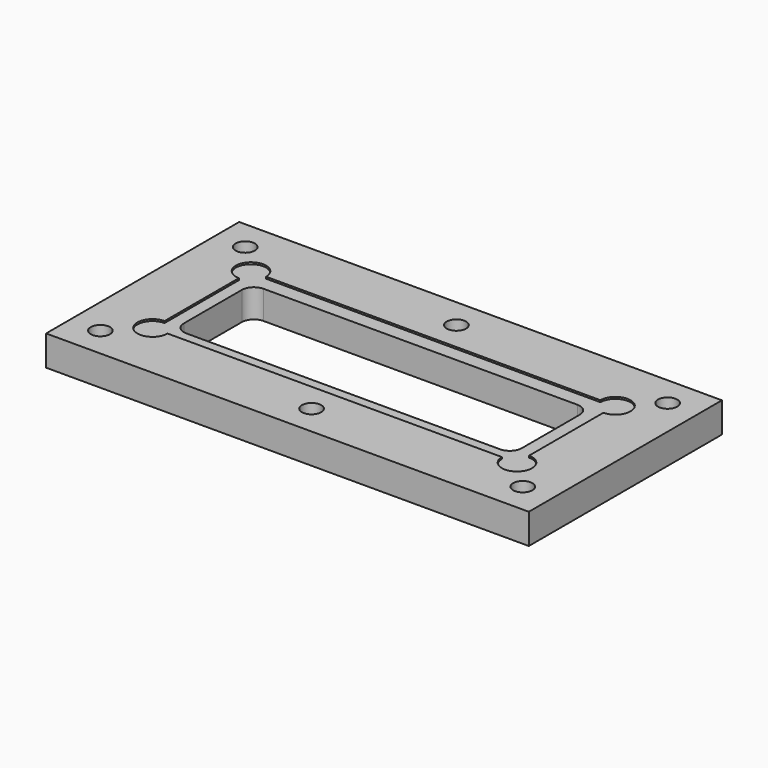
from build123d import *

# Parameters (mm, degrees)
F0_W     = 101.6
F0_H     = 50.8
F1_DEPTH = 6.35
F3_DEPTH = 0.381
F5_DEPTH = 5.969
F6_R     = 2.032
F7_DEPTH = 6.35


with BuildPart() as f1:
    # F0 (on Top) → F1 (new body)
    with BuildSketch(Plane.XY):
        with Locations((50.8, 25.4)):
            Rectangle(F0_W, F0_H)
    extrude(amount=F1_DEPTH)

    # F2 (on face) → F3 (cut)
    with BuildSketch(Plane.XY.offset(6.35)):
        with BuildLine():
            ThreePointArc((12.446, 15.621), (14.6910640303, 14.6910640303), (15.621, 12.446))
            Line((15.621, 12.446), (85.979, 12.446))
            ThreePointArc((85.979, 12.446), (86.9089359697, 14.6910640303), (89.154, 15.621))
            Line((89.154, 15.621), (89.154, 35.179))
            ThreePointArc((89.154, 35.179), (86.9089359697, 36.1089359697), (85.979, 38.354))
            Line((85.979, 38.354), (15.621, 38.354))
            ThreePointArc((15.621, 38.354), (14.6910640303, 36.1089359697), (12.446, 35.179))
            Line((12.446, 35.179), (12.446, 15.621))
        make_face()
        with BuildLine():
            Line((89.154, 38.354), (89.154, 35.179))
            ThreePointArc((89.154, 35.179), (91.3990640303, 36.1089359697), (92.329, 38.354))
            ThreePointArc((92.329, 38.354), (89.154, 41.529), (85.979, 38.354))
            Line((85.979, 38.354), (89.154, 38.354))
        make_face()
        with BuildLine():
            ThreePointArc((85.979, 38.354), (86.9089359697, 36.1089359697), (89.154, 35.179))
            Line((89.154, 35.179), (89.154, 38.354))
            Line((89.154, 38.354), (85.979, 38.354))
        make_face()
        with BuildLine():
            Line((12.446, 38.354), (12.446, 35.179))
            ThreePointArc((12.446, 35.179), (14.6910640303, 36.1089359697), (15.621, 38.354))
            Line((15.621, 38.354), (12.446, 38.354))
        make_face()
        with BuildLine():
            ThreePointArc((15.621, 38.354), (10.2009359697, 40.5990640303), (12.446, 35.179))
            Line((12.446, 35.179), (12.446, 38.354))
            Line((12.446, 38.354), (15.621, 38.354))
        make_face()
        with BuildLine():
            Line((89.154, 12.446), (85.979, 12.446))
            ThreePointArc((85.979, 12.446), (89.154, 9.271), (92.329, 12.446))
            ThreePointArc((92.329, 12.446), (91.3990640303, 14.6910640303), (89.154, 15.621))
            Line((89.154, 15.621), (89.154, 12.446))
        make_face()
        with BuildLine():
            ThreePointArc((89.154, 15.621), (86.9089359697, 14.6910640303), (85.979, 12.446))
            Line((85.979, 12.446), (89.154, 12.446))
            Line((89.154, 12.446), (89.154, 15.621))
        make_face()
        with BuildLine():
            Line((15.621, 12.446), (12.446, 12.446))
            Line((12.446, 12.446), (12.446, 15.621))
            ThreePointArc((12.446, 15.621), (10.2009359697, 10.2009359697), (15.621, 12.446))
        make_face()
        with BuildLine():
            Line((12.446, 15.621), (12.446, 12.446))
            Line((12.446, 12.446), (15.621, 12.446))
            ThreePointArc((15.621, 12.446), (14.6910640303, 14.6910640303), (12.446, 15.621))
        make_face()
    extrude(amount=-F3_DEPTH, mode=Mode.SUBTRACT)

    # F4 (on face) → F5 (cut, through all)
    with BuildSketch(Plane.XY.offset(5.969)):
        with BuildLine():
            ThreePointArc((14.986, 17.526), (15.7299487758, 15.7299487758), (17.526, 14.986))
            Line((17.526, 14.986), (83.566, 14.986))
            ThreePointArc((83.566, 14.986), (85.3620512242, 15.7299487758), (86.106, 17.526))
            Line((86.106, 17.526), (86.106, 32.766))
            ThreePointArc((86.106, 32.766), (85.3620512242, 34.5620512242), (83.566, 35.306))
            Line((83.566, 35.306), (17.526, 35.306))
            ThreePointArc((17.526, 35.306), (15.7299487758, 34.5620512242), (14.986, 32.766))
            Line((14.986, 32.766), (14.986, 17.526))
        make_face()
    extrude(amount=-F5_DEPTH, mode=Mode.SUBTRACT)

    # F6 (on face) → F7 (cut, through all)
    with BuildSketch(Plane.XY.offset(6.35)):
        with Locations((6.35, 44.45)):
            Circle(F6_R)
        with Locations((50.8, 44.45)):
            Circle(F6_R)
        with Locations((95.25, 44.45)):
            Circle(F6_R)
        with Locations((95.25, 6.35)):
            Circle(F6_R)
        with Locations((50.8, 6.35)):
            Circle(F6_R)
        with Locations((6.35, 6.35)):
            Circle(F6_R)
    extrude(amount=-F7_DEPTH, mode=Mode.SUBTRACT)


solid = f1.part
